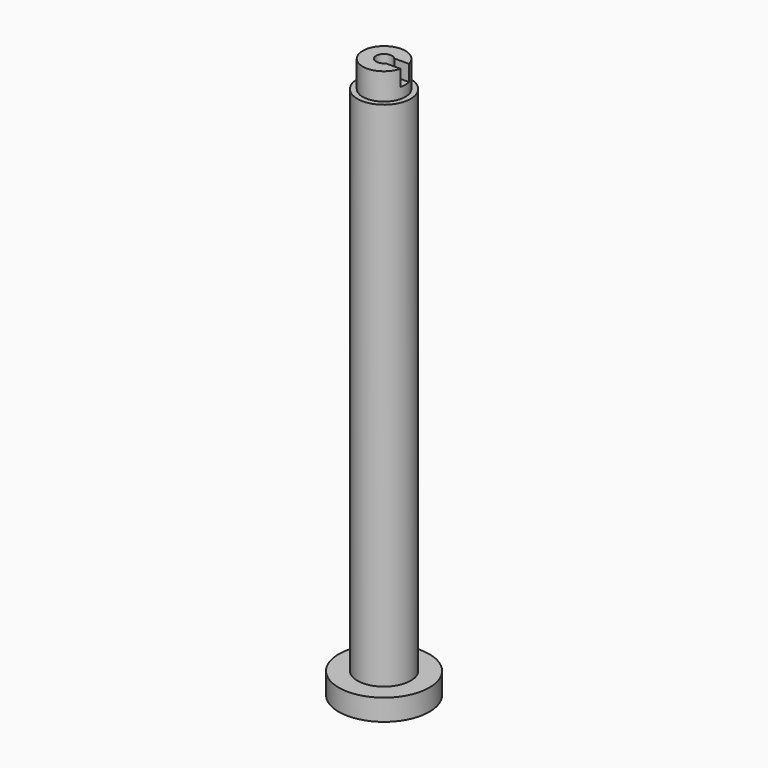
from build123d import *

# Parameters (mm, degrees)
F0_R      = 8.5
F1_DEPTH  = 4
F3_R      = 5
F4_DEPTH  = 100
F5_W      = 4
F5_H      = 5
F9_DEPTH  = 3
F10_R     = 1.5
F11_DEPTH = 118.9


with BuildPart() as f1:
    # F0 (on Top) → F1 (new body)
    with BuildSketch(Plane.XY):
        Circle(F0_R)
    extrude(amount=F1_DEPTH)

    # F3 (on Top) → F4 (join)
    with BuildSketch(Plane.XY):
        Circle(F3_R)
    extrude(amount=F4_DEPTH)

    # F5 (on Right) → F6 (revolve)
    with BuildSketch(Plane.YZ):
        with Locations((2, 102.5)):
            Rectangle(F5_W, F5_H)
    revolve(axis=Axis((0, 0, 102.5), (0, 0, -1)))

    # F8 (on face) → F9 (cut)
    with BuildSketch(Plane.XY.offset(105)):
        with BuildLine():
            Line((3.8729833462, 1), (1, 1))
            Line((1, 1), (1, -1))
            Line((1, -1), (3.8729833462, -1))
            ThreePointArc((3.8729833462, -1), (3.9681187851, -0.5040171699), (4, 0))
            ThreePointArc((4, 0), (3.9681187851, 0.5040171699), (3.8729833462, 1))
        make_face()
    extrude(amount=-F9_DEPTH, mode=Mode.SUBTRACT)

    # F10 (on face) → F11 (cut)
    with BuildSketch(Plane.XY.offset(105)):
        Circle(F10_R)
    extrude(amount=-F11_DEPTH, mode=Mode.SUBTRACT)


solid = f1.part
